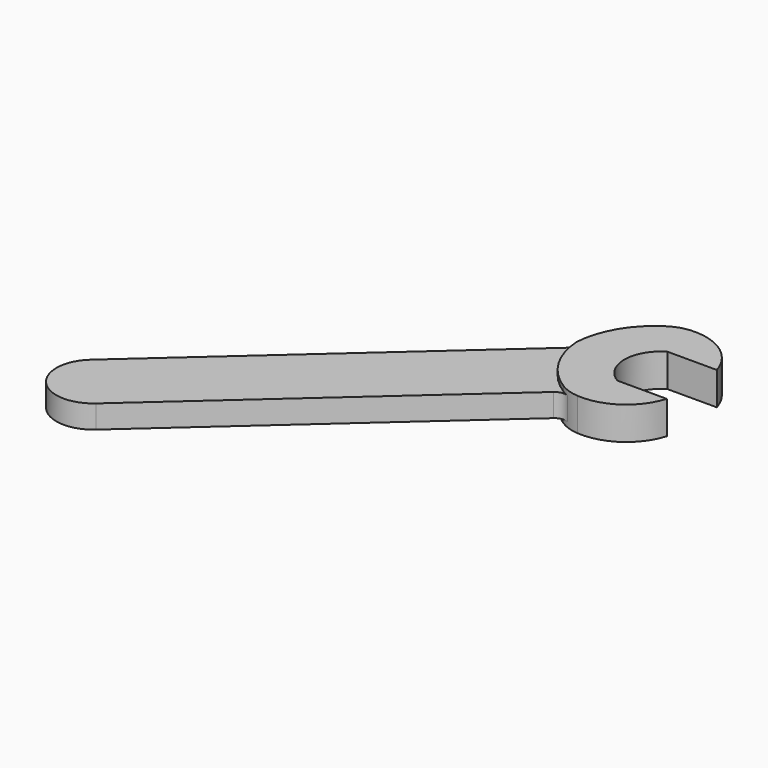
from build123d import *

# Parameters (mm, degrees)
F1_DEPTH = 7
F2_DEPTH = 10
F3_R     = 7


with BuildPart() as f1:
    # F0 (on Top) → F1 (new body, symmetric)
    with BuildSketch(Plane.XY):
        with BuildLine():
            ThreePointArc((-11.358531, 3.689624), (-27.896694, 20.489591), (-34.898927, 43))
            Line((-34.898927, 43), (-206.909318, -110.62962))
            ThreePointArc((-206.909318, -110.62962), (-208.702535, -142.398857), (-176.933299, -144.192073))
            Line((-176.933299, -144.192073), (-11.358531, 3.689624))
        make_face()
    extrude(amount=F1_DEPTH, both=True)

    # F0 (on Top) → F2 (join, symmetric)
    with BuildSketch(Plane.XY):
        with BuildLine():
            Line((5, 62), (35, 62))
            ThreePointArc((35, 62), (21.704163, 80.131071), (0, 86))
            ThreePointArc((0, 86), (-5.902823, 84.843409), (-11.358531, 82.310376))
            ThreePointArc((-11.358531, 82.310376), (-27.896694, 65.510409), (-34.898927, 43))
            ThreePointArc((-34.898927, 43), (-27.896694, 20.489591), (-11.358531, 3.689624))
            ThreePointArc((-11.358531, 3.689624), (-5.902823, 1.156591), (0, 0))
            ThreePointArc((0, 0), (21.704163, 5.868929), (35, 24))
            Line((35, 24), (5, 24))
            ThreePointArc((5, 24), (-5.909463, 43), (5, 62))
        make_face()
    extrude(amount=F2_DEPTH, both=True)

    # F3
    f3_edges = [f1.edges().sort_by_distance(p)[0] for p in [
        (-34.898927, 43, 0),
        (-11.358531, 3.689624, 0),
    ]]
    fillet(f3_edges, radius=F3_R)


solid = f1.part
